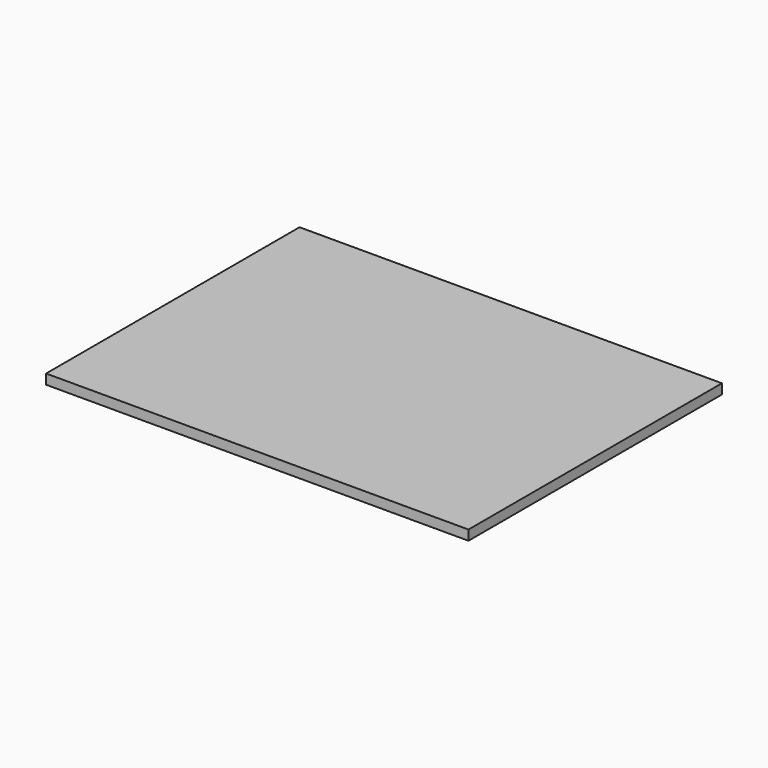
from build123d import *

# Parameters (mm, degrees)
SKETCH_W      = 406.4
SKETCH_H      = 304.8
EXTRUDE_DEPTH = 9.525


with BuildPart() as part:
    # Sketch → Extrude (new body)
    with BuildSketch(Plane.XY):
        with Locations((203.2, 152.4)):
            Rectangle(SKETCH_W, SKETCH_H)
    extrude(amount=EXTRUDE_DEPTH)


solid = part.part
